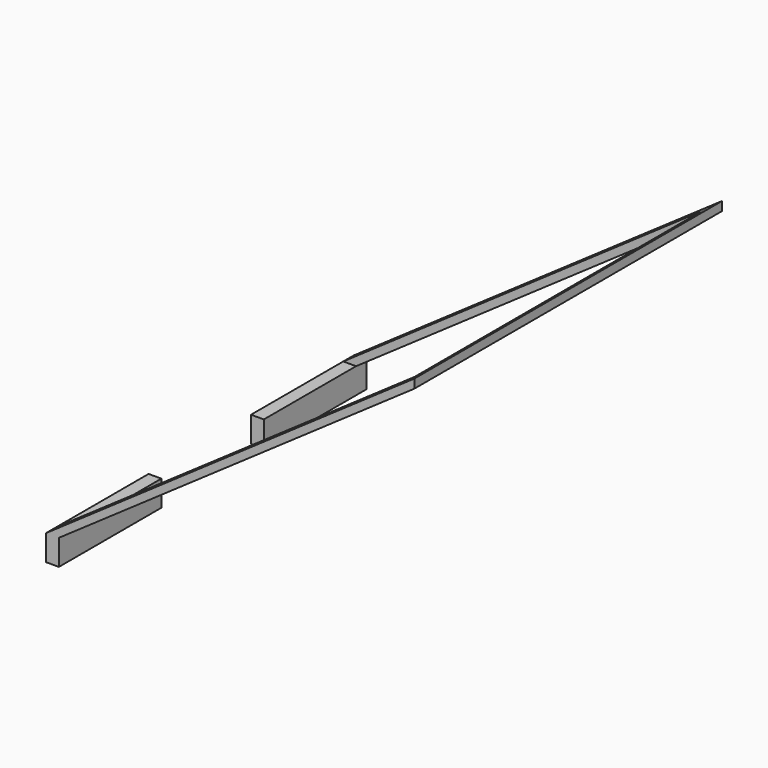
from build123d import *

# Parameters (mm, degrees)
F1_DEPTH = 5.08
F2_W     = 5.08
F2_H     = 10.16
F3_DEPTH = 45.72
F4_DEPTH = 142.24
F6_DEPTH = 5.08
F7_W     = 5.068376
F7_H     = 10.1649
F8_DEPTH = 50.8


with BuildPart() as f1:
    # F0 (on Front) → F1 (new body)
    with BuildSketch(Plane.XZ):
        Polygon((115.255311, 101.401368), (-30.794689, 0), (-30.794689, -10.16), (-25.714689, -10.16), (-25.714689, 0), (115.255311, 97.874364), align=None)
    extrude(amount=F1_DEPTH)

    # F2 (on face) → F3 (join)
    with BuildSketch(Plane.XZ.offset(5.08)):
        with Locations((-28.254689, -5.08)):
            Rectangle(F2_W, F2_H)
    extrude(amount=F3_DEPTH)

    # F2 (on face) → F4 (join)
    with BuildSketch(Plane.XZ.offset(5.08)):
        Polygon((115.255311, 101.401368), (111.198959, 98.585075), (111.198959, 95.058071), (115.255311, 97.874364), align=None)
    extrude(amount=F4_DEPTH)

    # F5 (on face) → F6 (join)
    with BuildSketch(Plane.XZ.offset(147.32)):
        Polygon((115.255311, 97.874364), (115.255311, 101.401368), (-30.752653, 0), (-30.752653, -10.1649), (-25.684277, -10.1649), (-25.684277, 0), align=None)
    extrude(amount=F6_DEPTH)

    # F7 (on face) → F8 (join)
    with BuildSketch(Plane.XZ.offset(152.4)):
        with Locations((-28.218465, -5.08245)):
            Rectangle(F7_W, F7_H)
    extrude(amount=-F8_DEPTH)


solid = f1.part
